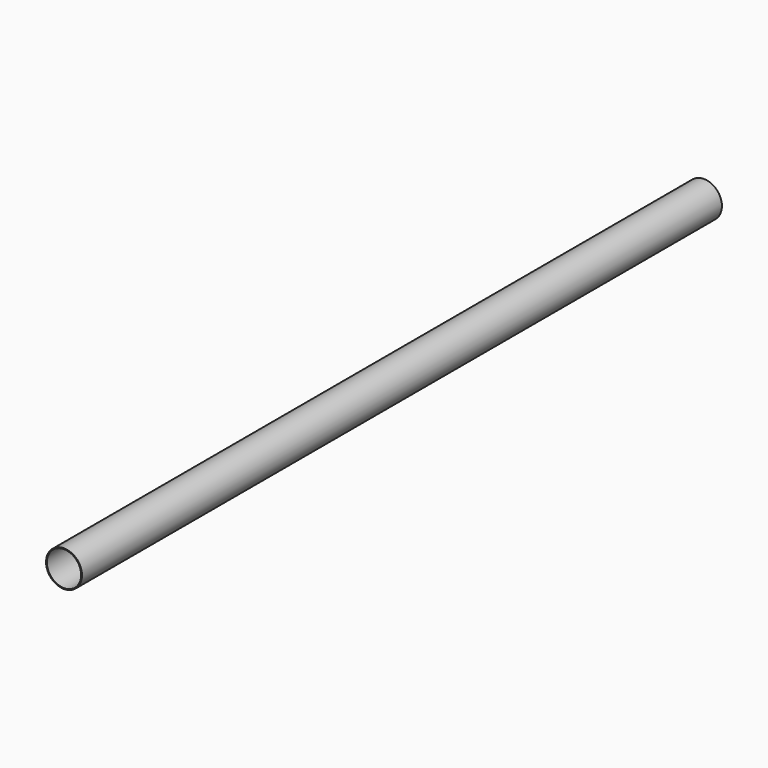
from build123d import *

# Parameters (mm, degrees)
F0_R     = 203.2
F0_R_2   = 193.675
F1_DEPTH = 9042.4
F2_R     = 84.1375
F3_DEPTH = 254


with BuildPart() as f1:
    # F0 (on Front) → F1 (new body)
    with BuildSketch(Plane.XZ):
        Circle(F0_R)
        Circle(F0_R_2, mode=Mode.SUBTRACT)
    extrude(amount=F1_DEPTH)

    # F2 (on Right) → F3 (cut)
    with BuildSketch(Plane.YZ):
        with Locations((-406.4, 0)):
            Circle(F2_R)
    extrude(amount=-F3_DEPTH, mode=Mode.SUBTRACT)


solid = f1.part
